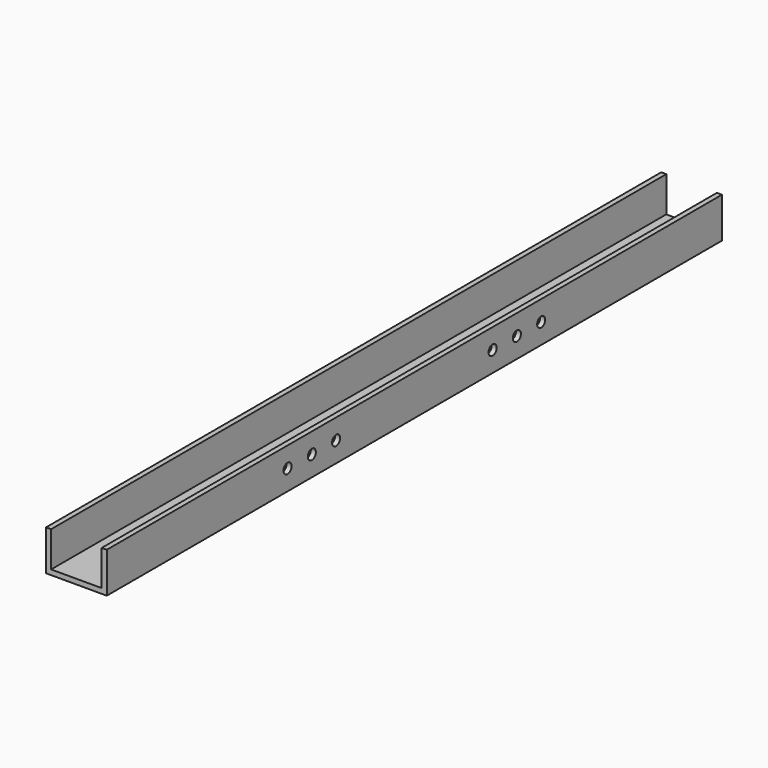
from build123d import *

# Parameters (mm, degrees)
F1_DEPTH = 482.6
F2_R     = 3.175
F3_DEPTH = 6.35


with BuildPart() as f1:
    # F0 (on Front) → F1 (new body)
    with BuildSketch(Plane.XZ):
        Polygon((0, 25.4), (0, 0), (38.1, 0), (38.1, 25.4), (34.925, 25.4), (34.925, 3.175), (3.175, 3.175), (3.175, 25.4), align=None)
    extrude(amount=F1_DEPTH)

    # F2 (on face) → F3 (cut)
    with BuildSketch(Plane.YZ.offset(38.1)):
        with Locations((-141.8082, 12.7)):
            Circle(F2_R)
        with Locations((-160.8582, 12.7)):
            Circle(F2_R)
        with Locations((-179.9082, 12.7)):
            Circle(F2_R)
        with Locations((-302.6918, 12.7)):
            Circle(F2_R)
        with Locations((-321.7418, 12.7)):
            Circle(F2_R)
        with Locations((-340.7918, 12.7)):
            Circle(F2_R)
    extrude(amount=-F3_DEPTH, mode=Mode.SUBTRACT)


solid = f1.part
